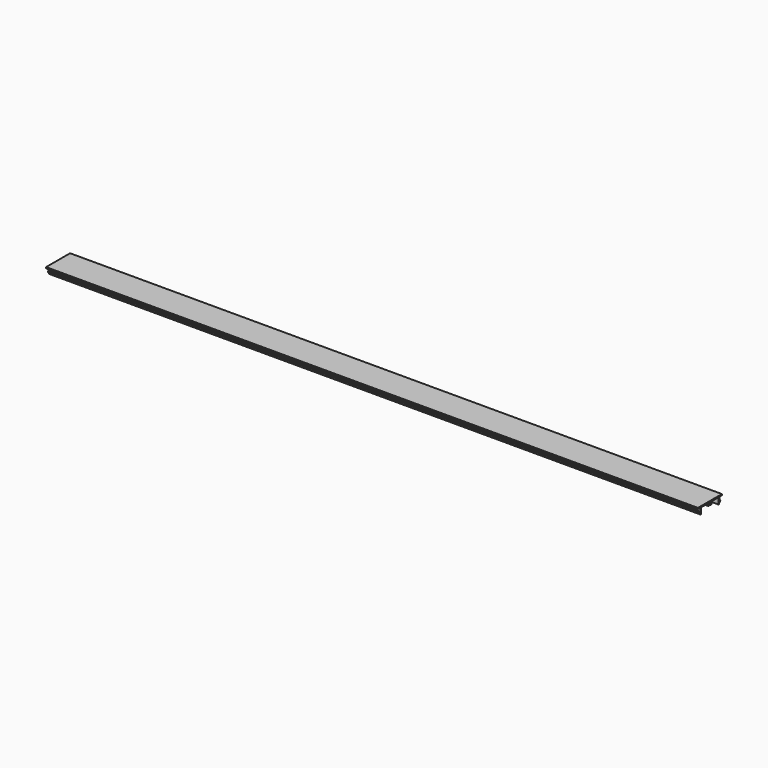
from build123d import *

# Parameters (mm, degrees)
F1_DEPTH = 1000


with BuildPart() as f1:
    # F0 (on Right) → F1 (new body)
    with BuildSketch(Plane.YZ):
        with BuildLine():
            ThreePointArc((21.605119, -4.867923), (23, -1.677844), (24.394881, -4.867923))
            ThreePointArc((24.394881, -4.867923), (24.439009, -5.998433), (25.569519, -5.954306))
            ThreePointArc((25.569519, -5.954306), (26.447471, -4.18195), (26.224471, -2.216672))
            ThreePointArc((26.224471, -2.216672), (26.250852, -1.934171), (26.500854, -1.8))
            Line((26.500854, -1.8), (39.7, -1.8))
            Line((39.7, -1.8), (39.7, -11.680957))
            ThreePointArc((39.7, -11.680957), (39.807643, -11.824852), (39.976079, -11.762223))
            Line((39.976079, -11.762223), (43.045648, -7))
            Line((43.045648, -7), (41.5, -7))
            Line((41.5, -7), (41.5, -1.8))
            Line((41.5, -1.8), (46, -1.8))
            Line((46, -1.8), (46, 0))
            Line((46, 0), (0, 0))
            Line((0, 0), (0, -1.8))
            Line((0, -1.8), (4.5, -1.8))
            Line((4.5, -1.8), (4.5, -7))
            Line((4.5, -7), (2.954352, -7))
            Line((2.954352, -7), (6.023921, -11.762223))
            ThreePointArc((6.023921, -11.762223), (6.192357, -11.824852), (6.3, -11.680957))
            Line((6.3, -11.680957), (6.3, -1.8))
            Line((6.3, -1.8), (19.499146, -1.8))
            ThreePointArc((19.499146, -1.8), (19.749148, -1.934171), (19.775529, -2.216672))
            ThreePointArc((19.775529, -2.216672), (19.552529, -4.18195), (20.430481, -5.954306))
            ThreePointArc((20.430481, -5.954306), (21.560991, -5.998433), (21.605119, -4.867923))
        make_face()
    extrude(amount=F1_DEPTH)


solid = f1.part
